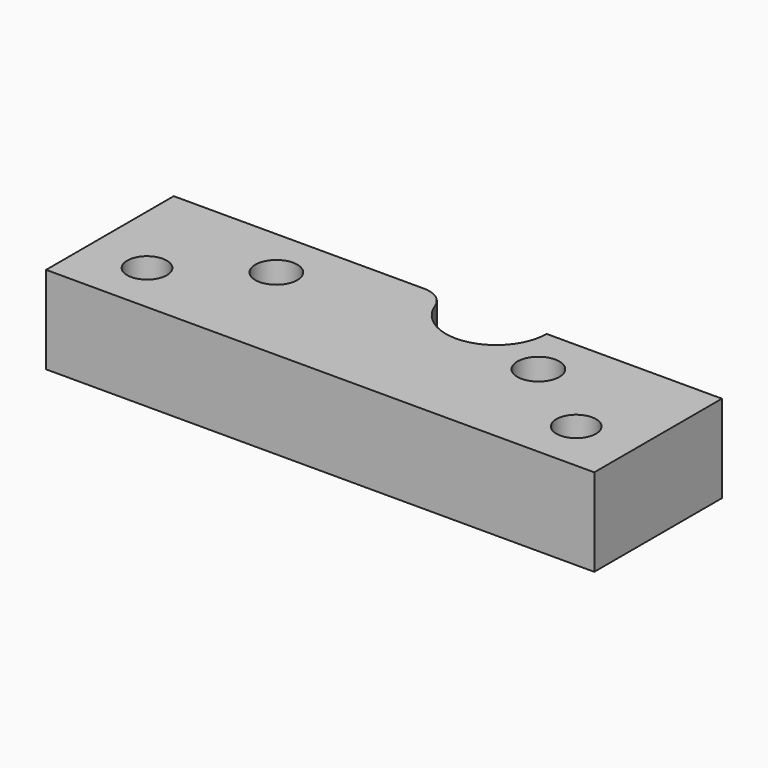
from build123d import *

# Parameters (mm, degrees)
F0_R     = 6
F0_R_2   = 6.35
F1_DEPTH = 26.5


with BuildPart() as f1:
    # F0 (on Top) → F1 (new body)
    with BuildSketch(Plane.XY):
        with BuildLine():
            Line((-7.184661, 32.6), (-82.9, 32.6))
            Line((-82.9, 32.6), (-82.9, -15.66))
            Line((-82.9, -15.66), (82.9, -15.66))
            Line((82.9, -15.66), (82.9, 32.6))
            Line((82.9, 32.6), (29.875, 32.6))
            ThreePointArc((29.875, 32.6), (17.299084, 17.594659), (0.32641, 27.353873))
            ThreePointArc((0.32641, 27.353873), (-2.603776, 31.15862), (-7.184661, 32.6))
        make_face()
        with Locations((-64.9, 0)):
            Circle(F0_R, mode=Mode.SUBTRACT)
        with Locations((64.9, 0)):
            Circle(F0_R, mode=Mode.SUBTRACT)
        with Locations((-39.635, 17.3)):
            Circle(F0_R_2, mode=Mode.SUBTRACT)
        with Locations((39.635, 17.3)):
            Circle(F0_R_2, mode=Mode.SUBTRACT)
    extrude(amount=F1_DEPTH)


solid = f1.part
